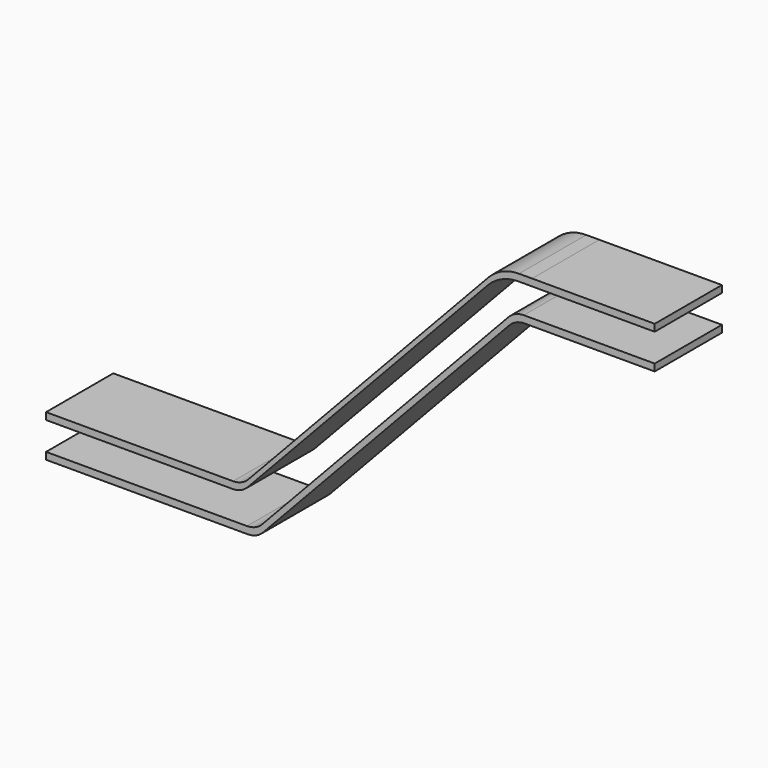
from build123d import *

# Parameters (mm, degrees)
F1_DEPTH = 120


with BuildPart() as f1:
    # F0 (on Front) → F1 (new body)
    with BuildSketch(Plane.XZ):
        with BuildLine():
            Line((287.010327, 0), (0, 0))
            Line((0, 0), (0, -10))
            Line((0, -10), (1.135688, -9.986454))
            Line((1.135688, -9.986454), (288.146015, -9.986454))
            ThreePointArc((288.146015, -9.986454), (300.066259, -7.516579), (310.023736, -0.51364))
            Line((310.023736, -0.51364), (661.736978, 374.339702))
            ThreePointArc((661.736978, 374.339702), (671.694455, 381.342642), (683.614699, 383.812517))
            Line((683.614699, 383.812517), (869.489338, 383.812517))
            Line((869.489338, 383.812517), (869.489338, 393.798971))
            Line((869.489338, 393.798971), (682.479011, 393.798971))
            ThreePointArc((682.479011, 393.798971), (670.558766, 391.329096), (660.60129, 384.326156))
            Line((660.60129, 384.326156), (308.888048, 9.472815))
            ThreePointArc((308.888048, 9.472815), (298.930571, 2.469875), (287.010327, 0))
        make_face()
        with BuildLine():
            Line((0, 50), (0, 40))
            Line((0, 40), (266.394799, 40))
            ThreePointArc((266.394799, 40), (278.315043, 42.469875), (288.272519, 49.472815))
            Line((288.272519, 49.472815), (631.097714, 414.853342))
            ThreePointArc((631.097714, 414.853342), (651.012667, 428.859221), (674.853155, 433.798971))
            Line((674.853155, 433.798971), (869.489338, 433.798971))
            Line((869.489338, 433.798971), (869.489338, 443.798971))
            Line((869.489338, 443.798971), (694.288844, 443.762194))
            Line((694.288844, 443.762194), (675.63969, 443.762194))
            ThreePointArc((675.63969, 443.762194), (651.799202, 438.822443), (631.884249, 424.816564))
            Line((631.884249, 424.816564), (289.059054, 59.436037))
            ThreePointArc((289.059054, 59.436037), (279.101578, 52.433098), (267.181333, 49.963223))
            Line((267.181333, 49.963223), (0.786535, 49.963223))
            Line((0.786535, 49.963223), (0, 50))
        make_face()
    extrude(amount=F1_DEPTH)


solid = f1.part
